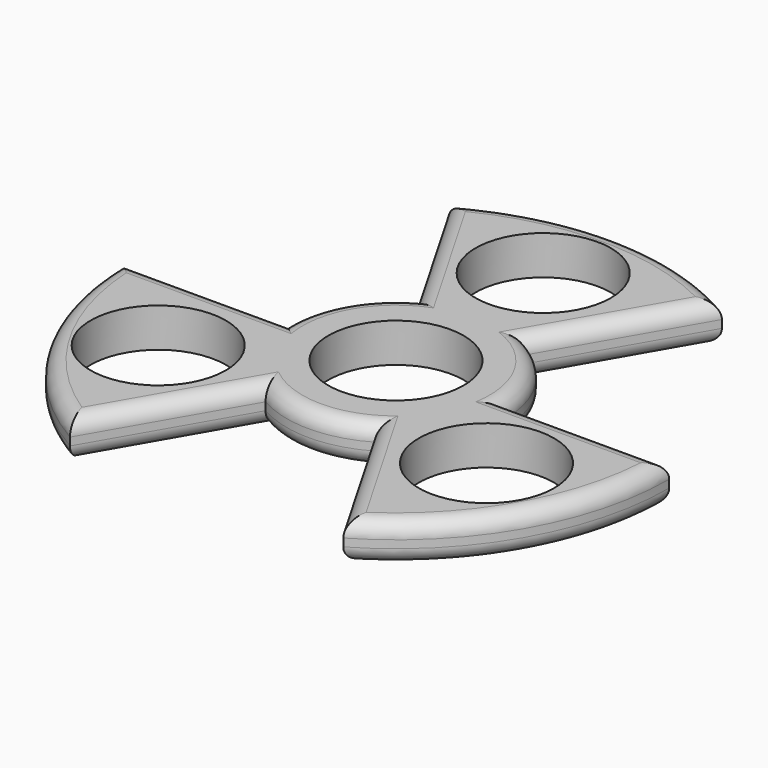
from build123d import *

# Parameters (mm, degrees)
F0_R     = 10.9982
F1_DEPTH = 6.35
F2_R     = 2.54


with BuildPart() as f1:
    # F0 (on Top) → F1 (new body)
    with BuildSketch(Plane.XY):
        with BuildLine():
            ThreePointArc((-44.45, 0), (-38.4948291982, -22.225), (-22.225, -38.4948291982))
            Line((-22.225, -38.4948291982), (-8.89, -15.3979316793))
            ThreePointArc((-8.89, -15.3979316793), (-15.3979316793, -8.89), (-17.78, 0))
            Line((-17.78, 0), (-44.45, 0))
        make_face()
        with Locations((-26.1790094785, -15.6166254914)):
            Circle(F0_R, mode=Mode.SUBTRACT)
        with BuildLine():
            Line((8.89, 15.3979316793), (22.225, 38.4948291982))
            ThreePointArc((22.225, 38.4948291982), (0, 44.45), (-22.225, 38.4948291982))
            Line((-22.225, 38.4948291982), (-8.89, 15.3979316793))
            ThreePointArc((-8.89, 15.3979316793), (0, 17.78), (8.89, 15.3979316793))
        make_face()
        with Locations((-0.4348896577, 30.48)):
            Circle(F0_R, mode=Mode.SUBTRACT)
        with BuildLine():
            ThreePointArc((22.225, -38.4948291982), (38.4948291982, -22.225), (44.45, 0))
            Line((44.45, 0), (17.78, 0))
            ThreePointArc((17.78, 0), (15.3979316793, -8.89), (8.89, -15.3979316793))
            Line((8.89, -15.3979316793), (22.225, -38.4948291982))
        make_face()
        with Locations((26.6138991362, -14.8633745086)):
            Circle(F0_R, mode=Mode.SUBTRACT)
        with BuildLine():
            ThreePointArc((8.89, -15.3979316793), (15.3979316793, -8.89), (17.78, 0))
            ThreePointArc((17.78, 0), (15.3979316793, 8.89), (8.89, 15.3979316793))
            ThreePointArc((8.89, 15.3979316793), (0, 17.78), (-8.89, 15.3979316793))
            ThreePointArc((-8.89, 15.3979316793), (-15.3979316793, 8.89), (-17.78, 0))
            ThreePointArc((-17.78, 0), (-15.3979316793, -8.89), (-8.89, -15.3979316793))
            ThreePointArc((-8.89, -15.3979316793), (0, -17.78), (8.89, -15.3979316793))
        make_face()
        Circle(F0_R, mode=Mode.SUBTRACT)
    extrude(amount=F1_DEPTH)

    # F2
    f2_edges = [f1.edges().sort_by_distance(p)[0] for p in [
        (-38.494829, -22.225, 6.35),
        (-15.5575, -26.94638, 6.35),
        (0, -17.78, 6.35),
        (15.5575, -26.94638, 6.35),
        (38.494829, -22.225, 6.35),
        (31.115, 0, 6.35),
        (15.397932, 8.89, 6.35),
        (15.5575, 26.94638, 6.35),
        (0, 44.45, 6.35),
        (-15.5575, 26.94638, 6.35),
        (-15.397932, 8.89, 6.35),
        (-31.115, 0, 6.35),
        (-15.5575, 26.94638, 0),
        (0, 44.45, 0),
        (15.5575, 26.94638, 0),
        (38.494829, -22.225, 0),
        (31.115, 0, 0),
        (15.5575, -26.94638, 0),
        (-15.397932, 8.89, 0),
        (15.397932, 8.89, 0),
        (-31.115, 0, 0),
        (-38.494829, -22.225, 0),
        (-15.5575, -26.94638, 0),
        (0, -17.78, 0),
    ]]
    fillet(f2_edges, radius=F2_R)


solid = f1.part
